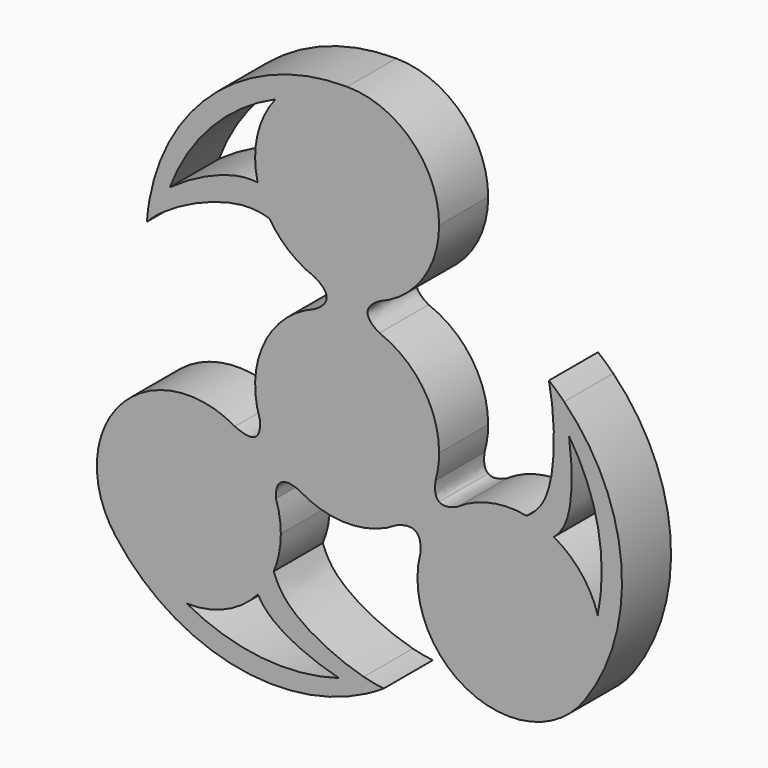
from build123d import *

# Parameters (mm, degrees)
F1_DEPTH = 9.525


with BuildPart() as f1:
    # F0 (on Front) → F1 (new body)
    with BuildSketch(Plane.XZ):
        with BuildLine():
            ThreePointArc((-11.129209475, 40.07453976), (-6.1694096933, 44.0018553296), (0, 45.4025))
            ThreePointArc((0, 45.4025), (-20.0075890018, 38.315719416), (-30.6961632928, 19.977768158))
            add(Edge.make_bspline(
                [(-30.6961632928, 19.977768158), (-29.8732969424, 20.8625993593), (-28.7796279343, 21.8030494207), (-27.5291002849, 22.7145349079)],
                knots=[0, 0, 0, 0, 0.1348905301, 0.1348905301, 0.1348905301, 0.1348905301], degree=3))
            ThreePointArc((-27.5291002849, 22.7145349079), (-21.0778351337, 33.046504915), (-11.129209475, 40.07453976))
        make_face()
        with BuildLine():
            add(Edge.make_bspline(
                [(-28.6868006646, 18.9004611224), (-25.471724073, 21.217375219), (-18.5226553299, 24.2515843699), (-13.8399380373, 24.0105914656), (-12.0803576364, 23.4862638251)],
                knots=[0.1069472615, 0.1069472615, 0.1069472615, 0.1069472615, 0.4758142615, 0.6708512149, 0.6708512149, 0.6708512149, 0.6708512149], degree=3))
            ThreePointArc((-12.0803576364, 23.4862638251), (-13.1625273264, 25.5579746599), (-13.8924363743, 27.778404754))
            add(Edge.make_bspline(
                [(-27.5291002849, 22.7145349079), (-24.3443673609, 25.0358253187), (-18.8443936536, 27.8282133181), (-14.8257797974, 27.9053631578), (-13.8924363743, 27.778404754)],
                knots=[0.1348905301, 0.1348905301, 0.1348905301, 0.1348905301, 0.4784177706, 0.5845231195, 0.5845231195, 0.5845231195, 0.5845231195], degree=3))
            ThreePointArc((-27.5291002849, 22.7145349079), (-28.1696370718, 20.8262219835), (-28.6868006646, 18.9004611224))
        make_face()
        with BuildLine():
            add(Edge.make_bspline(
                [(-31.0916826129, 16.8275), (-30.4392772685, 17.5290338571), (-29.618962222, 18.2287078403), (-28.6868006646, 18.9004611224)],
                knots=[0, 0, 0, 0, 0.1069472615, 0.1069472615, 0.1069472615, 0.1069472615], degree=3))
            ThreePointArc((-28.6868006646, 18.9004611224), (-28.1696370718, 20.8262219835), (-27.5291002849, 22.7145349079))
            add(Edge.make_bspline(
                [(-30.6961632928, 19.977768158), (-29.8732969424, 20.8625993593), (-28.7796279343, 21.8030494207), (-27.5291002849, 22.7145349079)],
                knots=[0, 0, 0, 0, 0.1348905301, 0.1348905301, 0.1348905301, 0.1348905301], degree=3))
            ThreePointArc((-30.6961632928, 19.977768158), (-30.9344924851, 18.4077276244), (-31.0916826129, 16.8275))
        make_face()
        with BuildLine():
            Line((0, 17.7419), (5.0292, 17.7419))
            ThreePointArc((5.0292, 17.7419), (11.7470709381, 22.9824124275), (14.2875, 31.115))
            ThreePointArc((14.2875, 31.115), (10.1027881362, 41.2177881362), (0, 45.4025))
            ThreePointArc((0, 45.4025), (-6.1694096933, 44.0018553296), (-11.129209475, 40.07453976))
            ThreePointArc((-11.129209475, 40.07453976), (-13.9398502242, 34.2476078555), (-13.8924363743, 27.778404754))
            ThreePointArc((-13.8924363743, 27.778404754), (-13.1625273264, 25.5579746599), (-12.0803576364, 23.4862638251))
            add(Edge.make_bspline(
                [(-12.0803576364, 23.4862638251), (-9.3691650731, 22.6783705347), (-6.3256595121, 20.8235485627), (-1.4460519065, 17.7419)],
                knots=[0.6708512149, 0.6708512149, 0.6708512149, 0.6708512149, 0.9713675979, 0.9713675979, 0.9713675979, 0.9713675979], degree=3))
            Line((-1.4460519065, 17.7419), (0, 17.7419))
        make_face()
        with BuildLine():
            Line((0, 0), (0, 13.3731))
            Line((0, 13.3731), (-5.0292, 13.3731))
            ThreePointArc((-5.0292, 13.3731), (-12.9083286672, 6.1243536206), (-13.5391458418, -4.5633525092))
            Line((-13.5391458418, -4.5633525092), (-10.567475758, -8.1956244248))
            Line((-10.567475758, -8.1956244248), (0, 0))
        make_face()
        with BuildLine():
            Line((7.68096, -12.04722), (10.69848, -8.02386))
            Line((10.69848, -8.02386), (0, 0))
            Line((0, 0), (-10.567475758, -8.1956244248))
            Line((-10.567475758, -8.1956244248), (-7.4853605897, -12.1697178723))
            ThreePointArc((-7.4853605897, -12.1697178723), (0.1153959033, -14.2870339831), (7.68096, -12.04722))
        make_face()
        with BuildLine():
            ThreePointArc((13.716, -4.0005), (14.1439033907, -2.0205576272), (14.2875, 0))
            ThreePointArc((14.2875, 0), (11.7470709381, 8.1325875725), (5.0292, 13.3731))
            Line((5.0292, 13.3731), (0, 13.3731))
            Line((0, 13.3731), (0, 0))
            Line((0, 0), (10.69848, -8.02386))
            Line((10.69848, -8.02386), (13.716, -4.0005))
        make_face()
        with BuildLine():
            Line((-13.9676082789, -10.9385280006), (-17.4340494965, -6.7014973993))
            ThreePointArc((-17.4340494965, -6.7014973993), (-35.3273131475, -9.6527326912), (-35.9117299253, -27.7783259466))
            ThreePointArc((-35.9117299253, -27.7783259466), (-31.032718707, -31.8206450649), (-24.885458426, -33.3556647255))
            ThreePointArc((-24.885458426, -33.3556647255), (-18.8250004476, -32.1468405376), (-13.8419410266, -28.4917720524))
            ThreePointArc((-13.8419410266, -28.4917720524), (-12.4543976012, -26.6218063281), (-11.389028977, -24.5512899041))
            add(Edge.make_bspline(
                [(-11.389028977, -24.5512899041), (-12.3646530193, -21.76015904), (-12.5856012494, -17.9957568314), (-13.1111198001, -11.9854137449)],
                knots=[0.6610434599, 0.6610434599, 0.6610434599, 0.6610434599, 0.9728634598, 0.9728634598, 0.9728634598, 0.9728634598], degree=3))
            Line((-13.1111198001, -11.9854137449), (-13.9676082789, -10.9385280006))
        make_face()
        with BuildLine():
            ThreePointArc((-24.885458426, -33.3556647255), (-31.032718707, -31.8206450649), (-35.9117299253, -27.7783259466))
            ThreePointArc((-35.9117299253, -27.7783259466), (-18.1000815921, -39.3226431793), (2.9529758884, -36.6217456555))
            add(Edge.make_bspline(
                [(2.9529758884, -36.6217456555), (1.7441334307, -36.5080110042), (0.289714726, -36.2464243625), (-1.2530470809, -35.8557527174)],
                knots=[0, 0, 0, 0, 0.1355449187, 0.1355449187, 0.1355449187, 0.1355449187], degree=3))
            ThreePointArc((-1.2530470809, -35.8557527174), (-13.3197478248, -36.9735464074), (-24.885458426, -33.3556647255))
        make_face()
        with BuildLine():
            add(Edge.make_bspline(
                [(2.5707142816, -34.4324261726), (-1.3456831321, -33.4037669395), (-8.2729367844, -30.1510829264), (-10.8093388321, -26.2097064508), (-11.389028977, -24.5512899041)],
                knots=[0.1056482335, 0.1056482335, 0.1056482335, 0.1056482335, 0.4757682175, 0.6610434599, 0.6610434599, 0.6610434599, 0.6610434599], degree=3))
            ThreePointArc((-11.389028977, -24.5512899041), (-12.4543976012, -26.6218063281), (-13.8419410266, -28.4917720524))
            add(Edge.make_bspline(
                [(-1.2530470809, -35.8557527174), (-5.1248015795, -34.8753131625), (-10.8958886067, -32.5379694207), (-13.3907983481, -29.3235619339), (-13.8419410266, -28.4917720524)],
                knots=[0.1355449187, 0.1355449187, 0.1355449187, 0.1355449187, 0.4757119144, 0.578874394, 0.578874394, 0.578874394, 0.578874394], degree=3))
            ThreePointArc((-1.2530470809, -35.8557527174), (0.6823987023, -35.2073970019), (2.5707142816, -34.4324261726))
        make_face()
        with BuildLine():
            add(Edge.make_bspline(
                [(2.9529758884, -36.6217456555), (1.7441334307, -36.5080110042), (0.289714726, -36.2464243625), (-1.2530470809, -35.8557527174)],
                knots=[0, 0, 0, 0, 0.1355449187, 0.1355449187, 0.1355449187, 0.1355449187], degree=3))
            ThreePointArc((2.9529758884, -36.6217456555), (4.3430288168, -35.8539039157), (5.691711479, -35.0155226433))
            add(Edge.make_bspline(
                [(5.691711479, -35.0155226433), (4.7494993224, -34.9268740601), (3.6886233005, -34.7260499581), (2.5707142816, -34.4324261726)],
                knots=[0, 0, 0, 0, 0.1056482335, 0.1056482335, 0.1056482335, 0.1056482335], degree=3))
            ThreePointArc((2.5707142816, -34.4324261726), (0.6823987023, -35.2073970019), (-1.2530470809, -35.8557527174))
        make_face()
        with BuildLine():
            ThreePointArc((-10.2963348681, -19.0713488693), (-10.4841982585, -16.7620408074), (-11.0428480755, -14.5134619762))
            Line((-11.0428480755, -14.5134619762), (-13.1111198001, -11.9854137449))
            add(Edge.make_bspline(
                [(-11.389028977, -24.5512899041), (-12.3646530193, -21.76015904), (-12.5856012494, -17.9957568314), (-13.1111198001, -11.9854137449)],
                knots=[0.6610434599, 0.6610434599, 0.6610434599, 0.6610434599, 0.9728634598, 0.9728634598, 0.9728634598, 0.9728634598], degree=3))
            ThreePointArc((-11.389028977, -24.5512899041), (-10.5721710587, -21.8652589502), (-10.2963348681, -19.0713488693))
        make_face()
        with BuildLine():
            ThreePointArc((32.0997847077, -5.7054719377), (30.0493612315, -4.7798546786), (27.8790629668, -4.18756321))
            add(Edge.make_bspline(
                [(27.8790629668, -4.18756321), (25.2291990999, -5.9648942607), (21.1306497697, -6.9726602139), (15.0740755277, -9.3907834095)],
                knots=[0.6365548592, 0.6365548592, 0.6365548592, 0.6365548592, 0.9719102302, 0.9719102302, 0.9719102302, 0.9719102302], degree=3))
            Line((15.0740755277, -9.3907834095), (14.2596788218, -10.5538624417))
            Line((14.2596788218, -10.5538624417), (11.3750482081, -14.6735419029))
            ThreePointArc((11.3750482081, -14.6735419029), (19.2451031931, -31.2051730294), (36.9179158581, -26.4193308171))
            ThreePointArc((36.9179158581, -26.4193308171), (38.8405119591, -22.5206915931), (39.5017810253, -18.2243574827))
            ThreePointArc((39.5017810253, -18.2243574827), (39.3564283292, -16.1915451737), (38.9233277082, -14.2000941595))
            ThreePointArc((38.9233277082, -14.2000941595), (36.3531107601, -9.2767808058), (32.0997847077, -5.7054719377))
        make_face()
        with BuildLine():
            ThreePointArc((39.5017810253, -18.2243574827), (38.8405119591, -22.5206915931), (36.9179158581, -26.4193308171))
            ThreePointArc((36.9179158581, -26.4193308171), (42.5886466549, -5.9652630323), (33.6977907453, 13.3085211811))
            add(Edge.make_bspline(
                [(33.6977907453, 13.3085211811), (33.9558103868, 12.1027186731), (34.2379640164, 10.5592509332), (34.462076145, 8.8704255659)],
                knots=[0, 0, 0, 0, 0.1376568503, 0.1376568503, 0.1376568503, 0.1376568503], degree=3))
            ThreePointArc((34.462076145, 8.8704255659), (38.9762030058, -2.2232632841), (38.9233277082, -14.2000941595))
            ThreePointArc((38.9233277082, -14.2000941595), (39.3564283292, -16.1915451737), (39.5017810253, -18.2243574827))
        make_face()
        with BuildLine():
            add(Edge.make_bspline(
                [(31.8414742693, 12.3036304451), (32.3280250776, 8.0211958063), (32.2602508843, 0.0575755824), (29.1277551626, -3.3500336145), (27.8790629668, -4.18756321)],
                knots=[0.1025479244, 0.1025479244, 0.1025479244, 0.1025479244, 0.478525747, 0.6365548592, 0.6365548592, 0.6365548592, 0.6365548592], degree=3))
            ThreePointArc((27.8790629668, -4.18756321), (30.0493612315, -4.7798546786), (32.0997847077, -5.7054719377))
            add(Edge.make_bspline(
                [(34.462076145, 8.8704255659), (35.0151869373, 4.7023890447), (35.2758794407, -1.8985489034), (32.8255865271, -5.0775489081), (32.0997847077, -5.7054719377)],
                knots=[0.1376568503, 0.1376568503, 0.1376568503, 0.1376568503, 0.4773952215, 0.5814339254, 0.5814339254, 0.5814339254, 0.5814339254], degree=3))
            ThreePointArc((34.462076145, 8.8704255659), (33.211954226, 10.6329632919), (31.8414742693, 12.3036304451))
        make_face()
        with BuildLine():
            add(Edge.make_bspline(
                [(31.3441027058, 15.4394312244), (31.5363152882, 14.5411646712), (31.7087675709, 13.4716641889), (31.8414742693, 12.3036304451)],
                knots=[0, 0, 0, 0, 0.1025479244, 0.1025479244, 0.1025479244, 0.1025479244], degree=3))
            ThreePointArc((31.8414742693, 12.3036304451), (33.211954226, 10.6329632919), (34.462076145, 8.8704255659))
            add(Edge.make_bspline(
                [(33.6977907453, 13.3085211811), (33.9558103868, 12.1027186731), (34.2379640164, 10.5592509332), (34.462076145, 8.8704255659)],
                knots=[0, 0, 0, 0, 0.1376568503, 0.1376568503, 0.1376568503, 0.1376568503], degree=3))
            ThreePointArc((33.6977907453, 13.3085211811), (32.5483888414, 14.4042872804), (31.3441027058, 15.4394312244))
        make_face()
        with BuildLine():
            ThreePointArc((27.8790629668, -4.18756321), (22.2875347291, -4.2398370273), (17.1443094355, -6.4341829806))
            Line((17.1443094355, -6.4341829806), (15.0740755277, -9.3907834095))
            add(Edge.make_bspline(
                [(27.8790629668, -4.18756321), (25.2291990999, -5.9648942607), (21.1306497697, -6.9726602139), (15.0740755277, -9.3907834095)],
                knots=[0.6365548592, 0.6365548592, 0.6365548592, 0.6365548592, 0.9719102302, 0.9719102302, 0.9719102302, 0.9719102302], degree=3))
        make_face()
        with BuildLine():
            ThreePointArc((-13.255939811, -10.364371792), (-15.16521869, -8.3278705899), (-17.4340494965, -6.7014973993))
            Line((-17.4340494965, -6.7014973993), (-13.9676082789, -10.9385280006))
            Line((-13.9676082789, -10.9385280006), (-13.1111198001, -11.9854137449))
            add(Edge.make_bspline(
                [(-13.1111198001, -11.9854137449), (-13.156853734, -11.4623558379), (-13.2048943545, -10.9222881259), (-13.255939811, -10.364371792)],
                knots=[0.9728634598, 0.9728634598, 0.9728634598, 0.9728634598, 1, 1, 1, 1], degree=3))
        make_face()
        with BuildLine():
            Line((-13.1111198001, -11.9854137449), (-11.0428480755, -14.5134619762))
            ThreePointArc((-11.0428480755, -14.5134619762), (-11.9775246049, -12.3472431446), (-13.255939811, -10.364371792))
            add(Edge.make_bspline(
                [(-13.1111198001, -11.9854137449), (-13.156853734, -11.4623558379), (-13.2048943545, -10.9222881259), (-13.255939811, -10.364371792)],
                knots=[0.9728634598, 0.9728634598, 0.9728634598, 0.9728634598, 1, 1, 1, 1], degree=3))
        make_face()
        with BuildLine():
            Line((-7.4853605897, -12.1697178723), (-10.567475758, -8.1956244248))
            Line((-10.567475758, -8.1956244248), (-11.290038203, -8.7560090009))
            ThreePointArc((-11.290038203, -8.7560090009), (-11.0362642828, -9.0737823938), (-10.7735491675, -9.3842045259))
            ThreePointArc((-10.7735491675, -9.3842045259), (-9.2350808081, -10.9016484404), (-7.4853605897, -12.1697178723))
        make_face()
        with BuildLine():
            Line((-10.567475758, -8.1956244248), (-13.5391458418, -4.5633525092))
            ThreePointArc((-13.5391458418, -4.5633525092), (-12.5903410279, -6.7539595092), (-11.290038203, -8.7560090009))
            Line((-11.290038203, -8.7560090009), (-10.567475758, -8.1956244248))
        make_face()
        with BuildLine():
            ThreePointArc((-11.290038203, -8.7560090009), (-12.5903410279, -6.7539595092), (-13.5391458418, -4.5633525092))
            add(Edge.make_bspline(
                [(-13.5391458418, -4.5633525092), (-13.4226119292, -5.8796905186), (-13.6904197886, -6.7257157353), (-14.2834424959, -7.1028133864)],
                knots=[0, 0, 0, 0, 0.477205225, 0.477205225, 0.477205225, 0.477205225], degree=3))
            Line((-14.2834424959, -7.1028133864), (-11.290038203, -8.7560090009))
        make_face()
        with BuildLine():
            add(Edge.make_bspline(
                [(-10.2625355182, -12.0175674064), (-9.6681783354, -11.6099962054), (-8.7776105432, -11.6390201447), (-7.4853605897, -12.1697178723)],
                knots=[0.492293427, 0.492293427, 0.492293427, 0.492293427, 1, 1, 1, 1], degree=3))
            ThreePointArc((-7.4853605897, -12.1697178723), (-9.2350808081, -10.9016484404), (-10.7735491675, -9.3842045259))
            Line((-10.7735491675, -9.3842045259), (-10.2625355182, -12.0175674064))
        make_face()
        with BuildLine():
            add(Edge.make_bspline(
                [(-11.0428480755, -14.5134619762), (-11.1366637871, -13.2184522936), (-10.8388489834, -12.4127654086), (-10.2625355182, -12.0175674064)],
                knots=[0, 0, 0, 0, 0.492293427, 0.492293427, 0.492293427, 0.492293427], degree=3))
            Line((-10.2625355182, -12.0175674064), (-12.272989007, -9.5601903964))
            Line((-12.272989007, -9.5601903964), (-13.255939811, -10.364371792))
            ThreePointArc((-13.255939811, -10.364371792), (-11.9775246049, -12.3472431446), (-11.0428480755, -14.5134619762))
        make_face()
        with BuildLine():
            Line((-12.272989007, -9.5601903964), (-14.2834424959, -7.1028133864))
            add(Edge.make_bspline(
                [(-14.2834424959, -7.1028133864), (-14.9331193153, -7.5159368632), (-15.9731176237, -7.3662554535), (-17.4340494965, -6.7014973993)],
                knots=[0.477205225, 0.477205225, 0.477205225, 0.477205225, 1, 1, 1, 1], degree=3))
            ThreePointArc((-17.4340494965, -6.7014973993), (-15.16521869, -8.3278705899), (-13.255939811, -10.364371792))
            Line((-13.255939811, -10.364371792), (-12.272989007, -9.5601903964))
        make_face()
        Polygon((-12.272989007, -9.5601903964), (-11.290038203, -8.7560090009), (-14.2834424959, -7.1028133864), align=None)
        with BuildLine():
            ThreePointArc((-10.7735491675, -9.3842045259), (-11.0362642828, -9.0737823938), (-11.290038203, -8.7560090009))
            Line((-11.290038203, -8.7560090009), (-12.272989007, -9.5601903964))
            Line((-12.272989007, -9.5601903964), (-10.2625355182, -12.0175674064))
            Line((-10.2625355182, -12.0175674064), (-10.7735491675, -9.3842045259))
        make_face()
        with BuildLine():
            add(Edge.make_bspline(
                [(15.0740755277, -9.3907834095), (14.5667695735, -9.5933283212), (14.0457262352, -9.8057682139), (13.5106461925, -10.0293841483)],
                knots=[0.9719102302, 0.9719102302, 0.9719102302, 0.9719102302, 1, 1, 1, 1], degree=3))
            ThreePointArc((13.5106461925, -10.0293841483), (12.2334654785, -12.2551796505), (11.3750482081, -14.6735419029))
            Line((11.3750482081, -14.6735419029), (14.2596788218, -10.5538624417))
            Line((14.2596788218, -10.5538624417), (15.0740755277, -9.3907834095))
        make_face()
        with BuildLine():
            Line((15.0740755277, -9.3907834095), (17.1443094355, -6.4341829806))
            ThreePointArc((17.1443094355, -6.4341829806), (15.1653882705, -8.0679599593), (13.5106461925, -10.0293841483))
            add(Edge.make_bspline(
                [(15.0740755277, -9.3907834095), (14.5667695735, -9.5933283212), (14.0457262352, -9.8057682139), (13.5106461925, -10.0293841483)],
                knots=[0.9719102302, 0.9719102302, 0.9719102302, 0.9719102302, 1, 1, 1, 1], degree=3))
        make_face()
        with BuildLine():
            add(Edge.make_bspline(
                [(14.2914282817, -6.7001343335), (14.8618986093, -7.1177709077), (15.8163336521, -7.0374427595), (17.1443094355, -6.4341829806)],
                knots=[0.4953346539, 0.4953346539, 0.4953346539, 0.4953346539, 1, 1, 1, 1], degree=3))
            Line((14.2914282817, -6.7001343335), (12.4703230962, -9.3009420742))
            Line((12.4703230962, -9.3009420742), (13.5106461925, -10.0293841483))
            ThreePointArc((13.5106461925, -10.0293841483), (15.1653882705, -8.0679599593), (17.1443094355, -6.4341829806))
        make_face()
        with BuildLine():
            Line((14.2914282817, -6.7001343335), (11.8069089542, -8.0454681155))
            ThreePointArc((11.8069089542, -8.0454681155), (11.6214424702, -8.3111209329), (11.43, -8.5725))
            Line((11.43, -8.5725), (12.4703230962, -9.3009420742))
            Line((12.4703230962, -9.3009420742), (14.2914282817, -6.7001343335))
        make_face()
        with BuildLine():
            add(Edge.make_bspline(
                [(13.716, -4.0005), (13.5414801517, -5.4005831067), (13.731505306, -6.2902193879), (14.2914282817, -6.7001343335)],
                knots=[0, 0, 0, 0, 0.4953346539, 0.4953346539, 0.4953346539, 0.4953346539], degree=3))
            ThreePointArc((13.716, -4.0005), (12.9207260684, -6.0981549763), (11.8069089542, -8.0454681155))
            Line((11.8069089542, -8.0454681155), (14.2914282817, -6.7001343335))
        make_face()
        with BuildLine():
            ThreePointArc((11.8069089542, -8.0454681155), (12.9207260684, -6.0981549763), (13.716, -4.0005))
            Line((13.716, -4.0005), (10.69848, -8.02386))
            Line((10.69848, -8.02386), (11.43, -8.5725))
            ThreePointArc((11.43, -8.5725), (11.6214424702, -8.3111209329), (11.8069089542, -8.0454681155))
        make_face()
        with BuildLine():
            ThreePointArc((11.8069089542, -8.0454681155), (12.9207260684, -6.0981549763), (13.716, -4.0005))
            Line((13.716, -4.0005), (10.69848, -8.02386))
            Line((10.69848, -8.02386), (11.43, -8.5725))
            ThreePointArc((11.43, -8.5725), (11.6214424702, -8.3111209329), (11.8069089542, -8.0454681155))
        make_face()
        with BuildLine():
            Line((11.43, -8.5725), (10.69848, -8.02386))
            Line((10.69848, -8.02386), (7.68096, -12.04722))
            ThreePointArc((7.68096, -12.04722), (9.7121376535, -10.478885363), (11.43, -8.5725))
        make_face()
        with BuildLine():
            Line((10.6492179108, -11.9017498148), (11.43, -8.5725))
            ThreePointArc((11.43, -8.5725), (9.7121376535, -10.478885363), (7.68096, -12.04722))
            add(Edge.make_bspline(
                [(7.68096, -12.04722), (9.0441819802, -11.4883481778), (10.0338975357, -11.4521388123), (10.6492179108, -11.9017498148)],
                knots=[0, 0, 0, 0, 0.5045647338, 0.5045647338, 0.5045647338, 0.5045647338], degree=3))
        make_face()
        Polygon((12.4703230962, -9.3009420742), (11.43, -8.5725), (10.6492179108, -11.9017498148), align=None)
        with BuildLine():
            Line((13.5106461925, -10.0293841483), (12.4703230962, -9.3009420742))
            Line((12.4703230962, -9.3009420742), (10.6492179108, -11.9017498148))
            add(Edge.make_bspline(
                [(10.6492179108, -11.9017498148), (11.2534048337, -12.3432256687), (11.4966224299, -13.2531003167), (11.3750482081, -14.6735419029)],
                knots=[0.5045647338, 0.5045647338, 0.5045647338, 0.5045647338, 1, 1, 1, 1], degree=3))
            ThreePointArc((11.3750482081, -14.6735419029), (12.2334654785, -12.2551796505), (13.5106461925, -10.0293841483))
        make_face()
        with BuildLine():
            ThreePointArc((-12.0803576364, 23.4862638251), (-9.0240605919, 20.0380425349), (-5.0292, 17.7419))
            Line((-5.0292, 17.7419), (-1.4460519065, 17.7419))
            add(Edge.make_bspline(
                [(-12.0803576364, 23.4862638251), (-9.3691650731, 22.6783705347), (-6.3256595121, 20.8235485627), (-1.4460519065, 17.7419)],
                knots=[0.6708512149, 0.6708512149, 0.6708512149, 0.6708512149, 0.9713675979, 0.9713675979, 0.9713675979, 0.9713675979], degree=3))
        make_face()
        with BuildLine():
            ThreePointArc((-5.0292, 17.7419), (-2.5558256983, 17.0579586594), (0, 16.8275))
            add(Edge.make_bspline(
                [(-1.4460519065, 17.7419), (-0.9811358651, 17.4482887168), (-0.4995521084, 17.1435405817), (0, 16.8275)],
                knots=[0.9713675979, 0.9713675979, 0.9713675979, 0.9713675979, 1, 1, 1, 1], degree=3))
            Line((-1.4460519065, 17.7419), (-5.0292, 17.7419))
        make_face()
        with BuildLine():
            Line((-3.175, 15.5575), (0, 15.5575))
            Line((0, 15.5575), (0, 16.8275))
            ThreePointArc((0, 16.8275), (-2.5558256983, 17.0579586594), (-5.0292, 17.7419))
            add(Edge.make_bspline(
                [(-5.0292, 17.7419), (-3.7846, 17.0137666667), (-3.175, 16.2856333333), (-3.175, 15.5575)],
                knots=[0, 0, 0, 0, 0.5, 0.5, 0.5, 0.5], degree=3))
        make_face()
        with BuildLine():
            ThreePointArc((0, 14.2875), (2.5558256983, 14.0570413406), (5.0292, 13.3731))
            add(Edge.make_bspline(
                [(5.0292, 13.3731), (3.7846, 14.1012333333), (3.175, 14.8293666667), (3.175, 15.5575)],
                knots=[0, 0, 0, 0, 0.5, 0.5, 0.5, 0.5], degree=3))
            Line((3.175, 15.5575), (0, 14.2875))
        make_face()
        with BuildLine():
            Line((0, 13.3731), (5.0292, 13.3731))
            ThreePointArc((5.0292, 13.3731), (2.5558256983, 14.0570413406), (0, 14.2875))
            Line((0, 14.2875), (0, 13.3731))
        make_face()
        with BuildLine():
            Line((0, 13.3731), (0, 14.2875))
            ThreePointArc((0, 14.2875), (-2.5558256983, 14.0570413406), (-5.0292, 13.3731))
            Line((-5.0292, 13.3731), (0, 13.3731))
        make_face()
        with BuildLine():
            ThreePointArc((-5.0292, 13.3731), (-2.5558256983, 14.0570413406), (0, 14.2875))
            Line((0, 14.2875), (-3.175, 15.5575))
            add(Edge.make_bspline(
                [(-3.175, 15.5575), (-3.175, 14.8293666667), (-3.7846, 14.1012333333), (-5.0292, 13.3731)],
                knots=[0.5, 0.5, 0.5, 0.5, 1, 1, 1, 1], degree=3))
        make_face()
        Polygon((-3.175, 15.5575), (0, 14.2875), (0, 15.5575), align=None)
        Polygon((0, 15.5575), (0, 14.2875), (3.175, 15.5575), align=None)
        with BuildLine():
            Line((0, 15.5575), (3.175, 15.5575))
            add(Edge.make_bspline(
                [(3.175, 15.5575), (3.175, 16.2856333333), (3.7846, 17.0137666667), (5.0292, 17.7419)],
                knots=[0.5, 0.5, 0.5, 0.5, 1, 1, 1, 1], degree=3))
            ThreePointArc((5.0292, 17.7419), (2.5558256983, 17.0579586594), (0, 16.8275))
            Line((0, 16.8275), (0, 15.5575))
        make_face()
        with BuildLine():
            ThreePointArc((0, 16.8275), (2.5558256983, 17.0579586594), (5.0292, 17.7419))
            Line((5.0292, 17.7419), (0, 17.7419))
            Line((0, 17.7419), (-1.4460519065, 17.7419))
            add(Edge.make_bspline(
                [(-1.4460519065, 17.7419), (-0.9811358651, 17.4482887168), (-0.4995521084, 17.1435405817), (0, 16.8275)],
                knots=[0.9713675979, 0.9713675979, 0.9713675979, 0.9713675979, 1, 1, 1, 1], degree=3))
        make_face()
    extrude(amount=F1_DEPTH)


solid = f1.part
